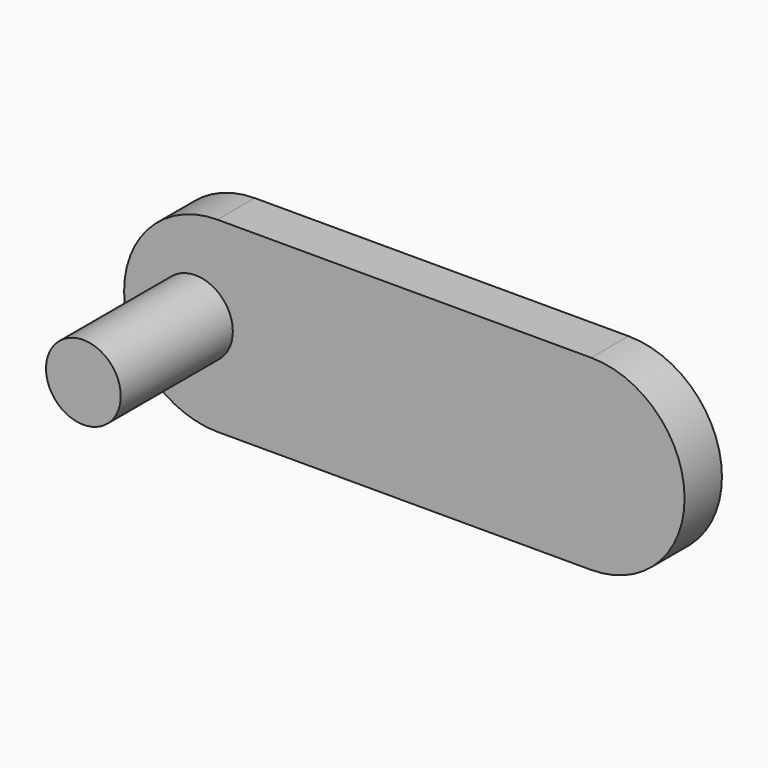
from build123d import *

# Parameters (mm, degrees)
F1_DEPTH = 3.175
F2_R     = 1.1938
F3_DEPTH = 2.54
F4_R     = 2.54
F5_DEPTH = 12.7


with BuildPart() as f1:
    # F0 (on Front) → F1 (new body)
    with BuildSketch(Plane.XZ):
        with BuildLine():
            Line((25.4, 6.35), (0, 6.35))
            ThreePointArc((0, 6.35), (-6.35, 0), (0, -6.35))
            Line((0, -6.35), (25.4, -6.35))
            ThreePointArc((25.4, -6.35), (31.75, 0), (25.4, 6.35))
        make_face()
    extrude(amount=F1_DEPTH)

    # F2 (on Front) → F3 (join)
    with BuildSketch(Plane.XZ):
        with Locations((10.16, 0)):
            Circle(F2_R)
        with Locations((26.67, 0)):
            Circle(F2_R)
    extrude(amount=-F3_DEPTH)

    # F4 (on Front) → F5 (join)
    with BuildSketch(Plane.XZ):
        with Locations((-1.4986, 0)):
            Circle(F4_R)
    extrude(amount=F5_DEPTH)


solid = f1.part
